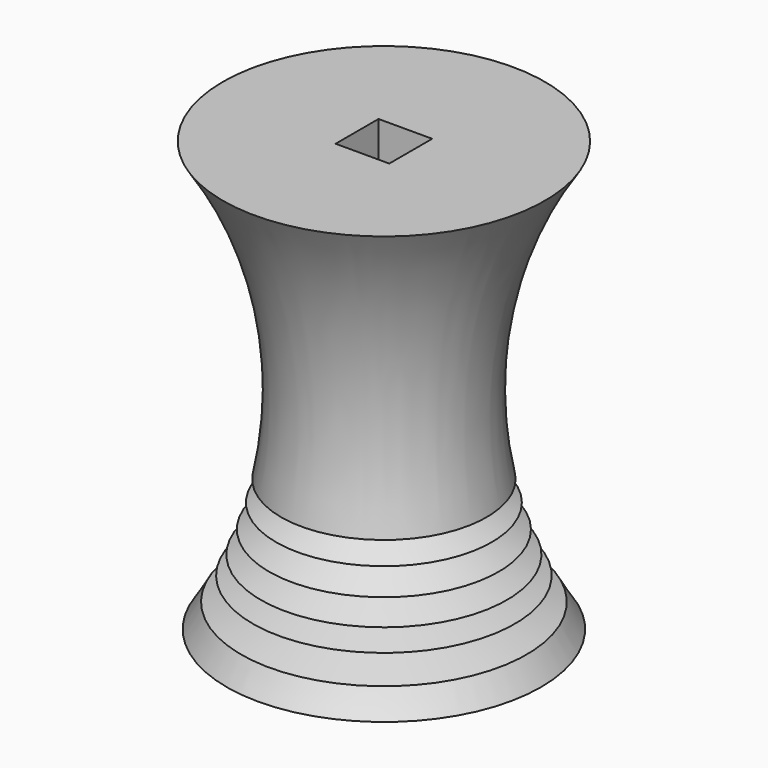
from build123d import *

# Parameters (mm, degrees)
F2_W     = 3.175
F2_H     = 3.175
F3_DEPTH = 25.401


with BuildPart() as f1:
    # F0 (on Front) → F1 (revolve)
    with BuildSketch(Plane.XZ):
        with BuildLine():
            Line((-44.959636, 6.975789), (-44.959636, 32.375789))
            Line((-44.959636, 32.375789), (-54.484636, 32.375789))
            ThreePointArc((-54.484636, 32.375789), (-50.984377, 23.926359), (-51.044765, 14.780812))
            Line((-51.044765, 14.780812), (-49.050511, 14.780812))
            Line((-49.050511, 14.780812), (-51.333277, 13.566875))
            Line((-51.333277, 13.566875), (-49.050511, 13.566875))
            Line((-49.050511, 13.566875), (-51.753638, 12.168776))
            Line((-51.753638, 12.168776), (-49.050511, 12.168776))
            Line((-49.050511, 12.168776), (-52.238768, 10.856421))
            Line((-52.238768, 10.856421), (-49.050511, 10.856421))
            Line((-49.050511, 10.856421), (-52.710255, 9.768794))
            Line((-52.710255, 9.768794), (-49.050511, 9.768794))
            Line((-49.050511, 9.768794), (-53.407144, 8.397108))
            ThreePointArc((-53.407144, 8.397108), (-53.818936, 7.678824), (-54.256254, 6.975789))
            Line((-54.256254, 6.975789), (-44.959636, 6.975789))
        make_face()
    revolve(axis=Axis((-44.959636, 0, 19.675789), (0, 0, -1)))

    # F2 (on face) → F3 (cut, through all)
    with BuildSketch(Plane.XY.offset(32.375789)):
        with Locations((-44.959636, 0)):
            Rectangle(F2_W, F2_H)
    extrude(amount=-F3_DEPTH, mode=Mode.SUBTRACT)


solid = f1.part
